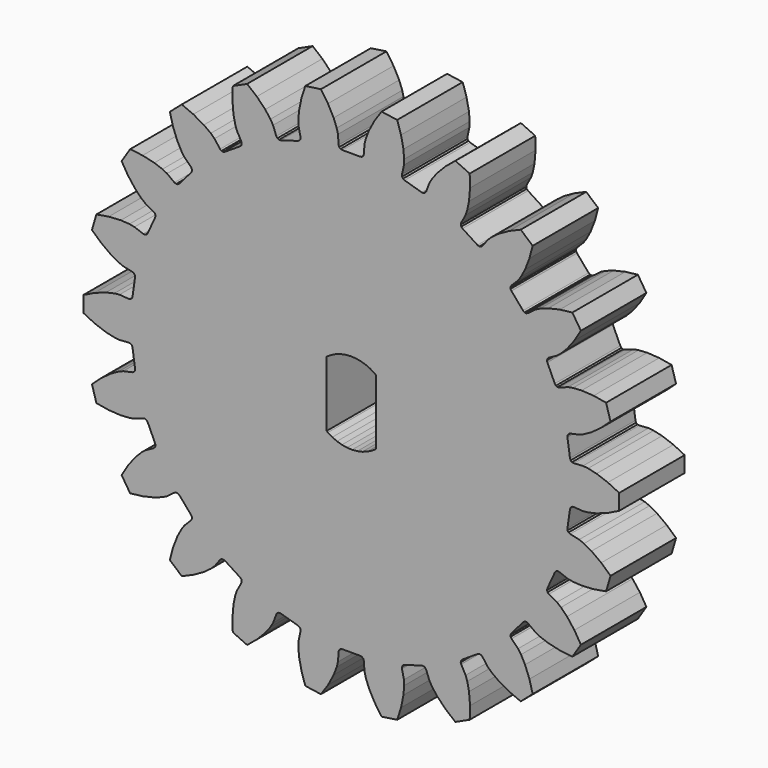
from build123d import *

# Parameters (mm, degrees)
F1_DEPTH = 5


with BuildPart() as f1:
    # F0 (on Front) → F1 (new body)
    with BuildSketch(Plane.XZ):
        Polygon((3.039477, -15.391243), (3.186698, -14.670204), (3.228917, -14.146246), (3.216602, -13.831089), (3.096885, -13.28005), (3.100508, -13.169287), (3.159026, -13.075175), (3.256761, -13.022932), (4.300967, -12.716325), (4.411431, -12.707436), (4.511541, -12.75497), (4.574471, -12.846191), (4.771674, -13.374479), (4.931701, -13.646264), (5.25049, -14.06422), (5.764163, -14.591202), (6.356946, -15.07839), (7.232572, -14.678504), (7.252571, -13.91147), (7.190689, -13.178161), (7.083581, -12.663533), (6.982975, -12.364611), (6.712862, -11.869621), (6.685132, -11.762324), (6.714766, -11.655538), (6.793823, -11.577876), (7.70935, -10.989502), (7.812836, -10.949852), (7.922282, -10.967257), (8.008363, -11.037053), (8.346413, -11.488382), (8.576529, -11.704074), (9.000157, -12.015286), (9.641491, -12.376204), (10.347518, -12.67665), (11.075015, -12.046271), (10.878105, -11.304672), (10.612132, -10.618502), (10.364376, -10.154896), (10.183629, -9.896426), (9.785002, -9.497586), (9.728167, -9.402448), (9.726516, -9.291639), (9.78049, -9.194849), (10.493168, -8.372375), (10.581291, -8.305176), (10.691207, -8.291041), (10.793465, -8.333758), (11.244976, -8.671566), (11.526538, -8.813689), (12.020685, -8.992946), (12.737722, -9.158559), (13.499796, -9.247924), (14.020226, -8.43812), (13.622359, -7.782037), (13.173844, -7.198595), (12.80551, -6.823569), (12.559266, -6.626492), (12.06442, -6.356113), (11.983084, -6.280842), (11.950281, -6.174986), (11.9748, -6.066911), (12.426892, -5.076968), (12.492513, -4.987664), (12.593995, -4.943134), (12.704145, -4.955311), (13.232538, -5.152231), (13.542735, -5.209272), (14.067368, -5.24205), (14.802019, -5.198942), (15.558401, -5.069986), (15.829601, -4.146363), (15.263011, -3.628948), (14.668289, -3.1955), (14.209219, -2.939437), (13.917426, -2.819718), (13.366451, -2.699706), (13.267202, -2.650398), (13.205905, -2.558073), (13.198983, -2.447467), (13.353862, -1.370255), (13.391665, -1.266081), (13.476491, -1.194764), (13.58561, -1.175415), (14.148079, -1.215492), (14.461781, -1.18283), (14.974397, -1.066475), (15.667145, -0.818137), (16.356556, -0.481308), (16.356556, 0.481308), (15.667145, 0.818137), (14.974397, 1.066475), (14.461781, 1.18283), (14.148079, 1.215492), (13.58561, 1.175415), (13.476491, 1.194764), (13.391665, 1.266081), (13.353862, 1.370255), (13.198983, 2.447467), (13.205905, 2.558073), (13.267202, 2.650398), (13.366451, 2.699706), (13.917426, 2.819718), (14.209219, 2.939437), (14.668289, 3.1955), (15.263011, 3.628948), (15.829601, 4.146363), (15.558401, 5.069986), (14.802019, 5.198942), (14.067368, 5.24205), (13.542735, 5.209272), (13.232538, 5.152231), (12.704145, 4.955311), (12.593995, 4.943134), (12.492513, 4.987664), (12.426892, 5.076968), (11.9748, 6.066911), (11.950281, 6.174986), (11.983084, 6.280842), (12.06442, 6.356113), (12.559266, 6.626492), (12.80551, 6.823569), (13.173844, 7.198595), (13.622359, 7.782037), (14.020226, 8.43812), (13.499796, 9.247924), (12.737722, 9.158559), (12.020685, 8.992946), (11.526538, 8.813689), (11.244976, 8.671566), (10.793465, 8.333758), (10.691207, 8.291041), (10.581291, 8.305176), (10.493168, 8.372375), (9.78049, 9.194849), (9.726516, 9.291639), (9.728167, 9.402448), (9.785002, 9.497586), (10.183629, 9.896426), (10.364376, 10.154896), (10.612132, 10.618502), (10.878105, 11.304672), (11.075015, 12.046271), (10.347518, 12.67665), (9.641491, 12.376204), (9.000157, 12.015286), (8.576529, 11.704074), (8.346413, 11.488382), (8.008363, 11.037053), (7.922282, 10.967257), (7.812836, 10.949852), (7.70935, 10.989502), (6.793823, 11.577876), (6.714766, 11.655538), (6.685132, 11.762324), (6.712862, 11.869621), (6.982975, 12.364611), (7.083581, 12.663533), (7.190689, 13.178161), (7.252571, 13.91147), (7.232572, 14.678504), (6.356946, 15.07839), (5.764163, 14.591202), (5.25049, 14.06422), (4.931701, 13.646264), (4.771674, 13.374479), (4.574471, 12.846191), (4.511541, 12.75497), (4.411431, 12.707436), (4.300967, 12.716325), (3.256761, 13.022932), (3.159026, 13.075175), (3.100508, 13.169287), (3.096885, 13.28005), (3.216602, 13.831089), (3.228917, 14.146246), (3.186698, 14.670204), (3.039477, 15.391243), (2.80419, 16.121573), (1.851371, 16.258568), (1.419858, 15.624109), (1.075459, 14.973754), (0.887335, 14.482915), (0.810361, 14.177054), (0.769983, 13.614608), (0.735301, 13.509353), (0.652639, 13.43554), (0.544145, 13.412947), (-0.544145, 13.412947), (-0.652639, 13.43554), (-0.735301, 13.509353), (-0.769983, 13.614608), (-0.810361, 14.177054), (-0.887335, 14.482915), (-1.075459, 14.973754), (-1.419858, 15.624109), (-1.851371, 16.258568), (-2.80419, 16.121573), (-3.039477, 15.391243), (-3.186698, 14.670204), (-3.228917, 14.146246), (-3.216602, 13.831089), (-3.096885, 13.28005), (-3.100508, 13.169287), (-3.159026, 13.075175), (-3.256761, 13.022932), (-4.300967, 12.716325), (-4.411431, 12.707436), (-4.511541, 12.75497), (-4.574471, 12.846191), (-4.771674, 13.374479), (-4.931701, 13.646264), (-5.25049, 14.06422), (-5.764163, 14.591202), (-6.356946, 15.07839), (-7.232572, 14.678504), (-7.252571, 13.91147), (-7.190689, 13.178161), (-7.083581, 12.663533), (-6.982975, 12.364611), (-6.712862, 11.869621), (-6.685132, 11.762324), (-6.714766, 11.655538), (-6.793823, 11.577876), (-7.70935, 10.989502), (-7.812836, 10.949852), (-7.922282, 10.967257), (-8.008363, 11.037053), (-8.346413, 11.488382), (-8.576529, 11.704074), (-9.000157, 12.015286), (-9.641491, 12.376204), (-10.347518, 12.67665), (-11.075015, 12.046271), (-10.878105, 11.304672), (-10.612132, 10.618502), (-10.364376, 10.154896), (-10.183629, 9.896426), (-9.785002, 9.497586), (-9.728167, 9.402448), (-9.726516, 9.291639), (-9.78049, 9.194849), (-10.493168, 8.372375), (-10.581291, 8.305176), (-10.691207, 8.291041), (-10.793465, 8.333758), (-11.244976, 8.671566), (-11.526538, 8.813689), (-12.020685, 8.992946), (-12.737722, 9.158559), (-13.499796, 9.247924), (-14.020226, 8.43812), (-13.622359, 7.782037), (-13.173844, 7.198595), (-12.80551, 6.823569), (-12.559266, 6.626492), (-12.06442, 6.356113), (-11.983084, 6.280842), (-11.950281, 6.174986), (-11.9748, 6.066911), (-12.426892, 5.076968), (-12.492513, 4.987664), (-12.593995, 4.943134), (-12.704145, 4.955311), (-13.232538, 5.152231), (-13.542735, 5.209272), (-14.067368, 5.24205), (-14.802019, 5.198942), (-15.558401, 5.069986), (-15.829601, 4.146363), (-15.263011, 3.628948), (-14.668289, 3.1955), (-14.209219, 2.939437), (-13.917426, 2.819718), (-13.366451, 2.699706), (-13.267202, 2.650398), (-13.205905, 2.558073), (-13.198983, 2.447467), (-13.353862, 1.370255), (-13.391665, 1.266081), (-13.476491, 1.194764), (-13.58561, 1.175415), (-14.148079, 1.215492), (-14.461781, 1.18283), (-14.974397, 1.066475), (-15.667145, 0.818137), (-16.356556, 0.481308), (-16.356556, -0.481308), (-15.667145, -0.818137), (-14.974397, -1.066475), (-14.461781, -1.18283), (-14.148079, -1.215492), (-13.58561, -1.175415), (-13.476491, -1.194764), (-13.391665, -1.266081), (-13.353862, -1.370255), (-13.198983, -2.447467), (-13.205905, -2.558073), (-13.267202, -2.650398), (-13.366451, -2.699706), (-13.917426, -2.819718), (-14.209219, -2.939437), (-14.668289, -3.1955), (-15.263011, -3.628948), (-15.829601, -4.146363), (-15.558401, -5.069986), (-14.802019, -5.198942), (-14.067368, -5.24205), (-13.542735, -5.209272), (-13.232538, -5.152231), (-12.704145, -4.955311), (-12.593995, -4.943134), (-12.492513, -4.987664), (-12.426892, -5.076968), (-11.9748, -6.066911), (-11.950281, -6.174986), (-11.983084, -6.280842), (-12.06442, -6.356113), (-12.559266, -6.626492), (-12.80551, -6.823569), (-13.173844, -7.198595), (-13.622359, -7.782037), (-14.020226, -8.43812), (-13.499796, -9.247924), (-12.737722, -9.158559), (-12.020685, -8.992946), (-11.526538, -8.813689), (-11.244976, -8.671566), (-10.793465, -8.333758), (-10.691207, -8.291041), (-10.581291, -8.305176), (-10.493168, -8.372375), (-9.78049, -9.194849), (-9.726516, -9.291639), (-9.728167, -9.402448), (-9.785002, -9.497586), (-10.183629, -9.896426), (-10.364376, -10.154896), (-10.612132, -10.618502), (-10.878105, -11.304672), (-11.075015, -12.046271), (-10.347518, -12.67665), (-9.641491, -12.376204), (-9.000157, -12.015286), (-8.576529, -11.704074), (-8.346413, -11.488382), (-8.008363, -11.037053), (-7.922282, -10.967257), (-7.812836, -10.949852), (-7.70935, -10.989502), (-6.793823, -11.577876), (-6.714766, -11.655538), (-6.685132, -11.762324), (-6.712862, -11.869621), (-6.982975, -12.364611), (-7.083581, -12.663533), (-7.190689, -13.178161), (-7.252571, -13.91147), (-7.232572, -14.678504), (-6.356946, -15.07839), (-5.764163, -14.591202), (-5.25049, -14.06422), (-4.931701, -13.646264), (-4.771674, -13.374479), (-4.574471, -12.846191), (-4.511541, -12.75497), (-4.411431, -12.707436), (-4.300967, -12.716325), (-3.256761, -13.022932), (-3.159026, -13.075175), (-3.100508, -13.169287), (-3.096885, -13.28005), (-3.216602, -13.831089), (-3.228917, -14.146246), (-3.186698, -14.670204), (-3.039477, -15.391243), (-2.80419, -16.121573), (-1.851371, -16.258568), (-1.419858, -15.624109), (-1.075459, -14.973754), (-0.887335, -14.482915), (-0.810361, -14.177054), (-0.769983, -13.614608), (-0.735301, -13.509353), (-0.652639, -13.43554), (-0.544145, -13.412947), (0.544145, -13.412947), (0.652639, -13.43554), (0.735301, -13.509353), (0.769983, -13.614608), (0.810361, -14.177054), (0.887335, -14.482915), (1.075459, -14.973754), (1.419858, -15.624109), (1.851371, -16.258568), (2.80419, -16.121573), align=None)
        Polygon((1.252693, -2.163506), (0.971656, -2.303451), (0.675295, -2.407068), (0.368285, -2.472724), (0.055466, -2.499385), (-0.258227, -2.486628), (-0.567848, -2.434656), (-0.868514, -2.344287), (-1.155482, -2.216948), (-1.424228, -2.054647), (-1.5, -1.994744), (-1.513974, 1.989443), (-1.252693, 2.163506), (-0.971656, 2.303451), (-0.675295, 2.407068), (-0.368285, 2.472724), (-0.055466, 2.499385), (0.258227, 2.486628), (0.567848, 2.434656), (0.868514, 2.344287), (1.155482, 2.216948), (1.424228, 2.054647), (1.5, 1.994744), (1.513974, -1.989443), align=None, mode=Mode.SUBTRACT)
    extrude(amount=F1_DEPTH)


solid = f1.part
